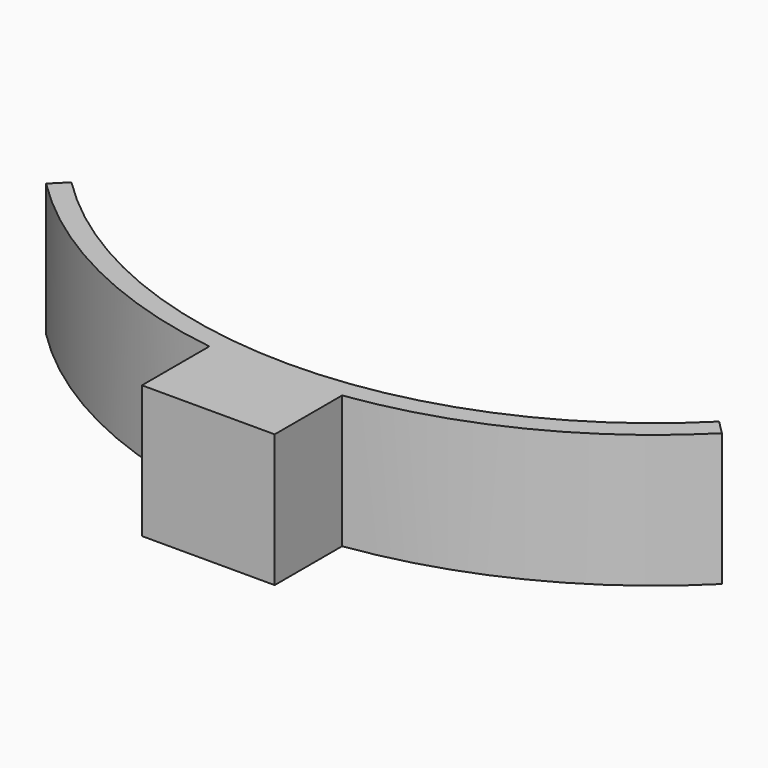
from build123d import *

# Parameters (mm, degrees)
F1_DEPTH = 20


with BuildPart() as f1:
    # F0 (on Top) → F1 (new body)
    with BuildSketch(Plane.XY):
        with BuildLine():
            Line((0, -69), (10, -69))
            Line((10, -69), (10, -71.302174))
            ThreePointArc((10, -71.302174), (32.116996, -64.439883), (50.911688, -50.911688))
            Line((50.911688, -50.911688), (48.790368, -48.790368))
            ThreePointArc((48.790368, -48.790368), (26.405157, -63.747688), (0, -69))
        make_face()
        Polygon((10, -71.302174), (10, -69), (0, -69), (-10, -69), (-10, -71.302174), (-10, -84), (10, -84), align=None)
        with BuildLine():
            Line((-10, -69), (0, -69))
            ThreePointArc((0, -69), (-26.405157, -63.747688), (-48.790368, -48.790368))
            Line((-48.790368, -48.790368), (-50.911688, -50.911688))
            ThreePointArc((-50.911688, -50.911688), (-32.116996, -64.439883), (-10, -71.302174))
            Line((-10, -71.302174), (-10, -69))
        make_face()
    extrude(amount=F1_DEPTH)


solid = f1.part
